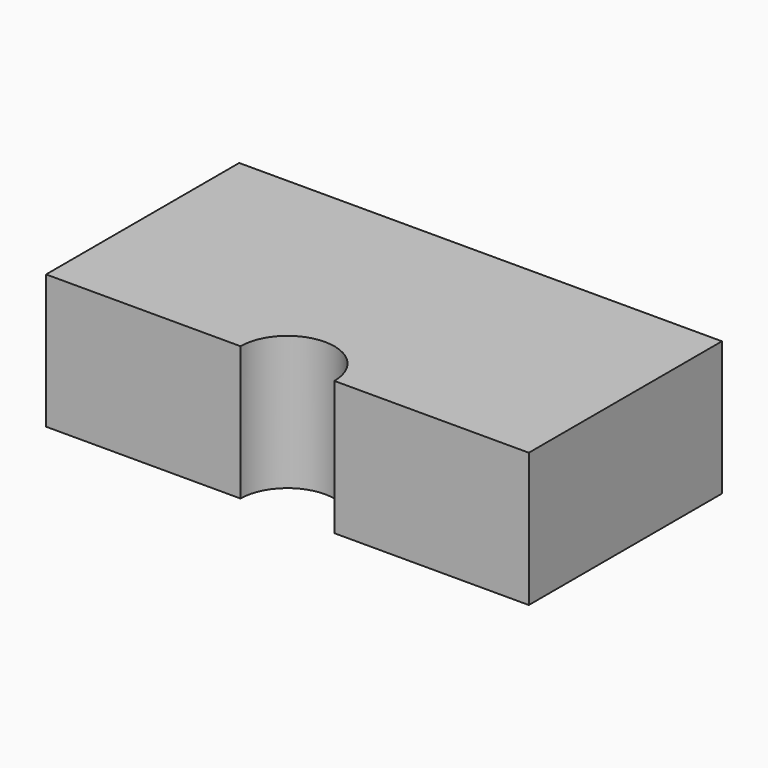
from build123d import *

# Parameters (mm, degrees)
F1_DEPTH = 63.5


with BuildPart() as f1:
    # F0 (on Top) → F1 (new body)
    with BuildSketch(Plane.XY):
        with BuildLine():
            Line((114.3, 114.3), (-114.3, 114.3))
            Line((-114.3, 114.3), (-114.3, 0))
            Line((-114.3, 0), (-22.225, 0))
            ThreePointArc((-22.225, 0), (0, 22.225), (22.225, 0))
            Line((22.225, 0), (114.3, 0))
            Line((114.3, 0), (114.3, 114.3))
        make_face()
    extrude(amount=-F1_DEPTH)


solid = f1.part
